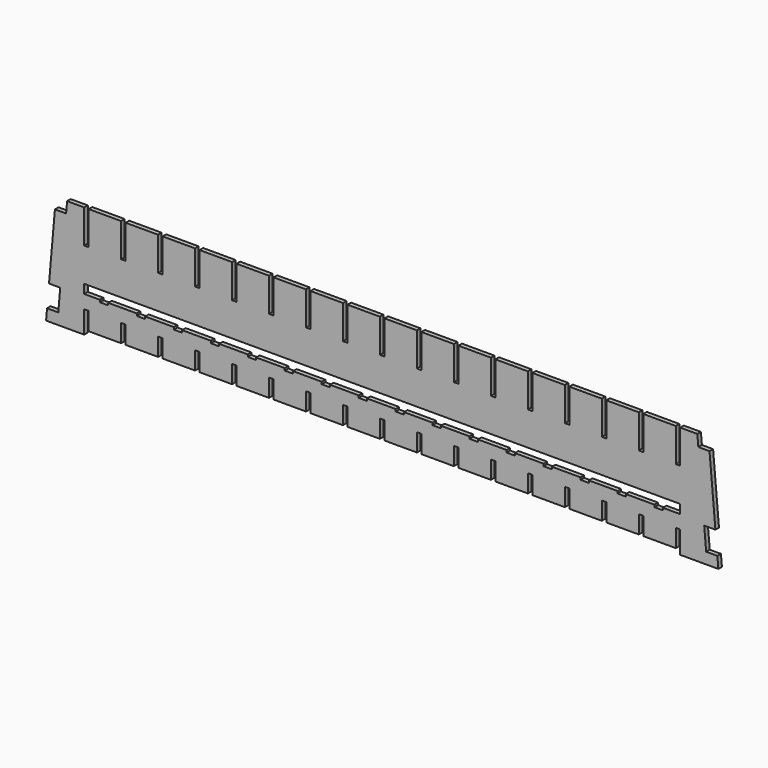
from build123d import *

# Parameters (mm, degrees)
F1_DEPTH = 2
F3_DEPTH = 2


with BuildPart() as f1:
    # F0 (on Front) → F1 (new body)
    with BuildSketch(Plane.XZ):
        Polygon((3.9369898587, 45), (0, 0), (17, 0), (17, 10), (19, 10), (19, 2), (33.5, 2), (33.5, 10), (35.5, 10), (35.5, 2), (50, 2), (50, 10), (52, 10), (52, 2), (66.5, 2), (66.5, 10), (68.5, 10), (68.5, 2), (83, 2), (83, 10), (85, 10), (85, 2), (99.5, 2), (99.5, 10), (101.5, 10), (101.5, 2), (116, 2), (116, 10), (118, 10), (118, 2), (132.5, 2), (132.5, 10), (134.5, 10), (134.5, 2), (149, 2), (149, 10), (151, 10), (151, 2), (165.5, 2), (165.5, 10), (167.5, 10), (167.5, 2), (182, 2), (182, 10), (184, 10), (184, 2), (198.5, 2), (198.5, 10), (200.5, 10), (200.5, 2), (215, 2), (215, 10), (217, 10), (217, 2), (231.5, 2), (231.5, 10), (233.5, 10), (233.5, 2), (248, 2), (248, 10), (250, 10), (250, 2), (264.5, 2), (264.5, 10), (266.5, 10), (266.5, 2), (281, 2), (281, 10), (283, 10), (283, 0), (300, 0), (296.0630101413, 45), (291.0630101413, 45), (290.6255668237, 50), (283, 50), (283, 35), (281, 35), (281, 50), (266.5, 50), (266.5, 35), (264.5, 35), (264.5, 50), (250, 50), (250, 35), (248, 35), (248, 50), (233.5, 50), (233.5, 35), (231.5, 35), (231.5, 50), (217, 50), (217, 35), (215, 35), (215, 50), (200.5, 50), (200.5, 35), (198.5, 35), (198.5, 50), (184, 50), (184, 35), (182, 35), (182, 50), (167.5, 50), (167.5, 35), (165.5, 35), (165.5, 50), (151, 50), (151, 35), (149, 35), (149, 50), (134.5, 50), (134.5, 35), (132.5, 35), (132.5, 50), (118, 50), (118, 35), (116, 35), (116, 50), (101.5, 50), (101.5, 35), (99.5, 35), (99.5, 50), (85, 50), (85, 35), (83, 35), (83, 50), (68.5, 50), (68.5, 35), (66.5, 35), (66.5, 50), (52, 50), (52, 35), (50, 35), (50, 50), (35.5, 50), (35.5, 35), (33.5, 35), (33.5, 50), (19, 50), (19, 35), (17, 35), (17, 50), (9.3744331763, 50), (8.9369898587, 45), align=None)
    extrude(amount=-F1_DEPTH)

    # F2 (on Front) → F3 (cut, through all)
    with BuildSketch(Plane.XZ):
        Polygon((283, 20), (17, 20), (17, 16), (24, 16), (24, 15), (27.7, 15), (27.7, 16), (40.5, 16), (40.5, 15), (44.2, 15), (44.2, 16), (57, 16), (57, 15), (60.7, 15), (60.7, 16), (73.5, 16), (73.5, 15), (77.2, 15), (77.2, 16), (90, 16), (90, 15), (93.7, 15), (93.7, 16), (106.5, 16), (106.5, 15), (110.2, 15), (110.2, 16), (123, 16), (123, 15), (126.7, 15), (126.7, 16), (139.5, 16), (139.5, 15), (143.2, 15), (143.2, 16), (156, 16), (156, 15), (159.7, 15), (159.7, 16), (172.5, 16), (172.5, 15), (176.2, 15), (176.2, 16), (189, 16), (189, 15), (192.7, 15), (192.7, 16), (205.5, 16), (205.5, 15), (209.2, 15), (209.2, 16), (222, 16), (222, 15), (225.7, 15), (225.7, 16), (238.5, 16), (238.5, 15), (242.2, 15), (242.2, 16), (255, 16), (255, 15), (258.7, 15), (258.7, 16), (271.5, 16), (271.5, 15), (275.2, 15), (275.2, 16), (283, 16), align=None)
        Polygon((1.3123299529, 15), (0.4374433176, 5), (5.4374433176, 5), (6.3123299529, 15), align=None)
        Polygon((298.6876700471, 15), (293.6876700471, 15), (294.5625566824, 5), (299.5625566824, 5), align=None)
    extrude(amount=-F3_DEPTH, mode=Mode.SUBTRACT)


solid = f1.part
